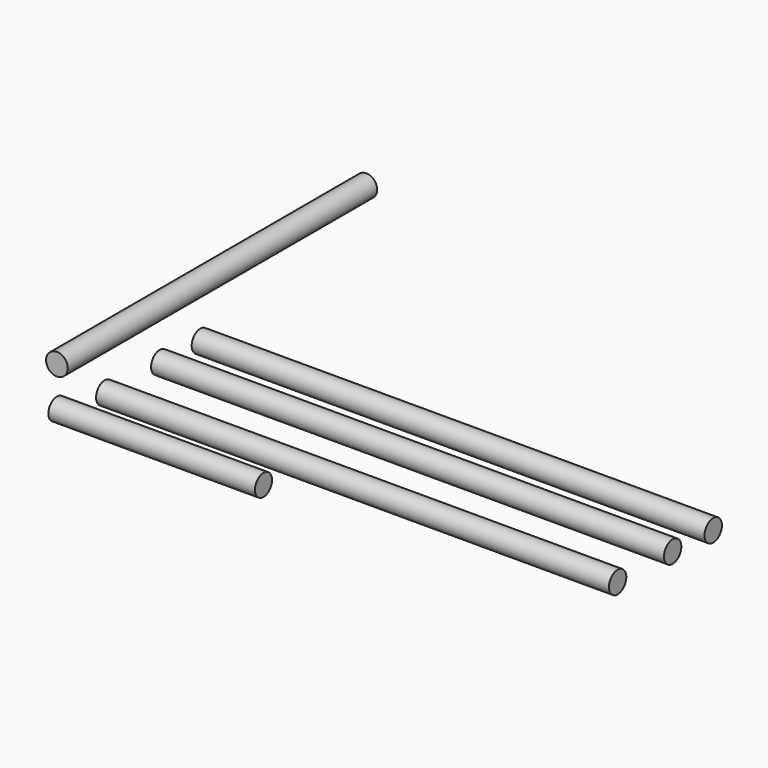
from build123d import *

# Parameters (mm, degrees)
F0_R     = 3.175
F1_DEPTH = 113.1
F2_R     = 3.125
F3_DEPTH = 60.41668
F4_R     = 3.175
F5_DEPTH = 150
F6_R     = 3.175
F7_DEPTH = 150
F8_R     = 3.175
F9_DEPTH = 150


with BuildPart() as f1:
    # F0 (on Front) → F1 (new body)
    with BuildSketch(Plane.XZ):
        Circle(F0_R)
    extrude(amount=-F1_DEPTH)


with BuildPart() as f3:
    # F2 (on Right) → F3 (new body)
    with BuildSketch(Plane.YZ):
        with Locations((0, -11.434477)):
            Circle(F2_R)
    extrude(amount=F3_DEPTH)


with BuildPart() as f5:
    # F4 (on Right) → F5 (new body)
    with BuildSketch(Plane.YZ):
        with Locations((17.480373, -14.408385)):
            Circle(F4_R)
    extrude(amount=F5_DEPTH)


with BuildPart() as f7:
    # F6 (on Right) → F7 (new body)
    with BuildSketch(Plane.YZ):
        with Locations((37.602078, -14.738738)):
            Circle(F6_R)
    extrude(amount=F7_DEPTH)


with BuildPart() as f9:
    # F8 (on Right) → F9 (new body)
    with BuildSketch(Plane.YZ):
        with Locations((52.430268, -15.315468)):
            Circle(F8_R)
    extrude(amount=F9_DEPTH)


solid = Compound([f1.part, f3.part, f5.part, f7.part, f9.part])
